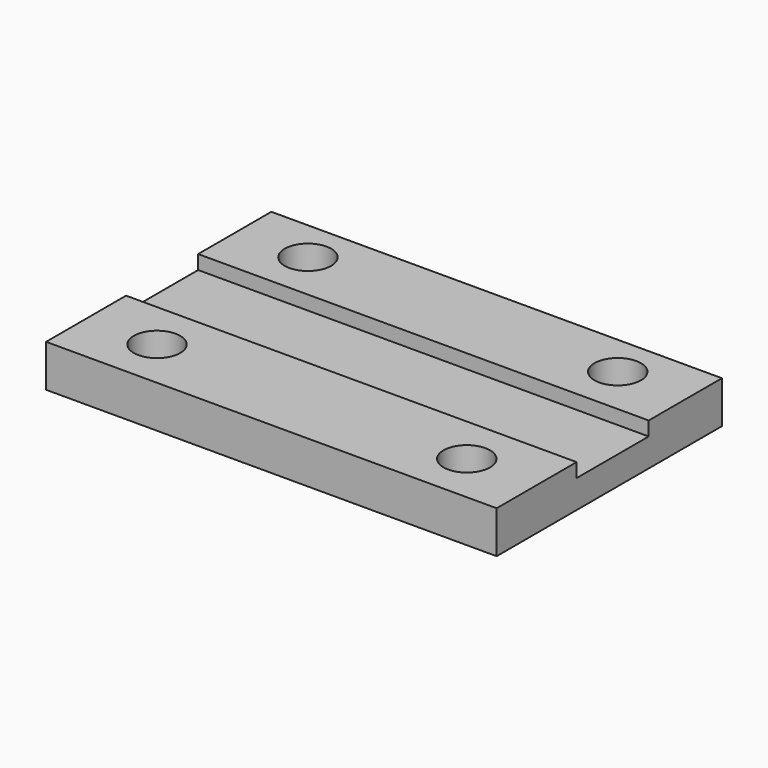
from build123d import *

# Parameters (mm, degrees)
SKETCH_W     = 32
SKETCH_H     = 20
SKETCH_R     = 1.65
PAD_DEPTH    = 3
SKETCH001_W  = 50.742166
SKETCH001_H  = 6.4
POCKET_DEPTH = 1


with BuildPart() as part:
    # Sketch → Pad (new body)
    with BuildSketch(Plane.XY):
        with Locations((0, -24)):
            Rectangle(SKETCH_W, SKETCH_H)
        with Locations((-11, -17)):
            Circle(SKETCH_R, mode=Mode.SUBTRACT)
        with Locations((11, -17)):
            Circle(SKETCH_R, mode=Mode.SUBTRACT)
        with Locations((-11, -30.4)):
            Circle(SKETCH_R, mode=Mode.SUBTRACT)
        with Locations((11, -30.4)):
            Circle(SKETCH_R, mode=Mode.SUBTRACT)
    extrude(amount=PAD_DEPTH)

    # Sketch001 (on Face10 of Pad) → Pocket (cut)
    with BuildSketch(Plane.XY.offset(3)):
        with Locations((0.273011, -23.7)):
            Rectangle(SKETCH001_W, SKETCH001_H)
    extrude(amount=-POCKET_DEPTH, mode=Mode.SUBTRACT)


solid = part.part
